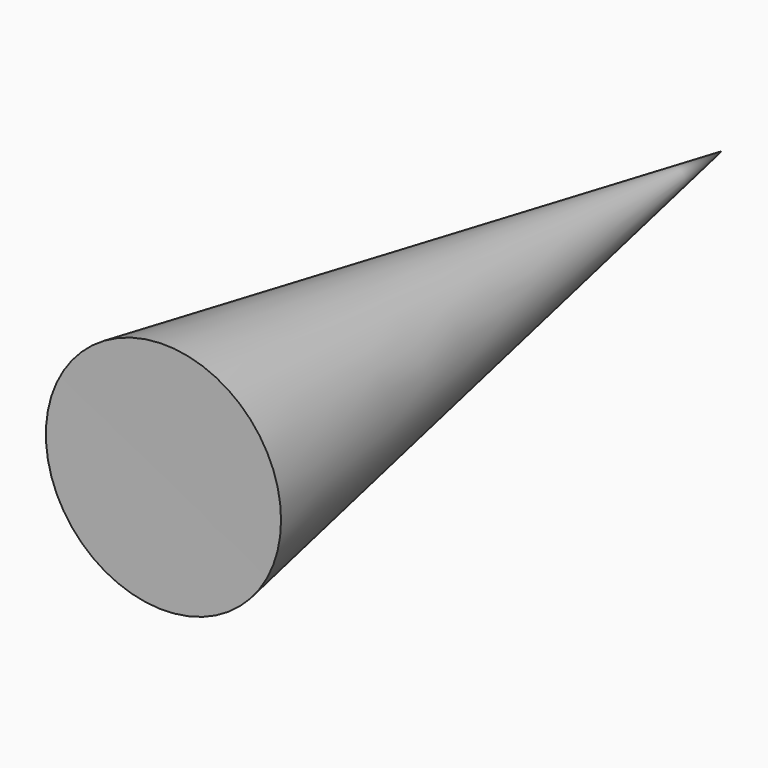
from build123d import *


with BuildPart() as f1:
    # F0 (on Top) → F1 (revolve)
    with BuildSketch(Plane.XY):
        Polygon((101.5627124816, 50.7991771342), (101.8518534287, 0), (110.3185200954, 0), align=None)
    revolve(axis=Axis((101.7072829552, 25.3995885671, 0), (0.0056917509, -0.9999838019, 0)))


solid = f1.part
